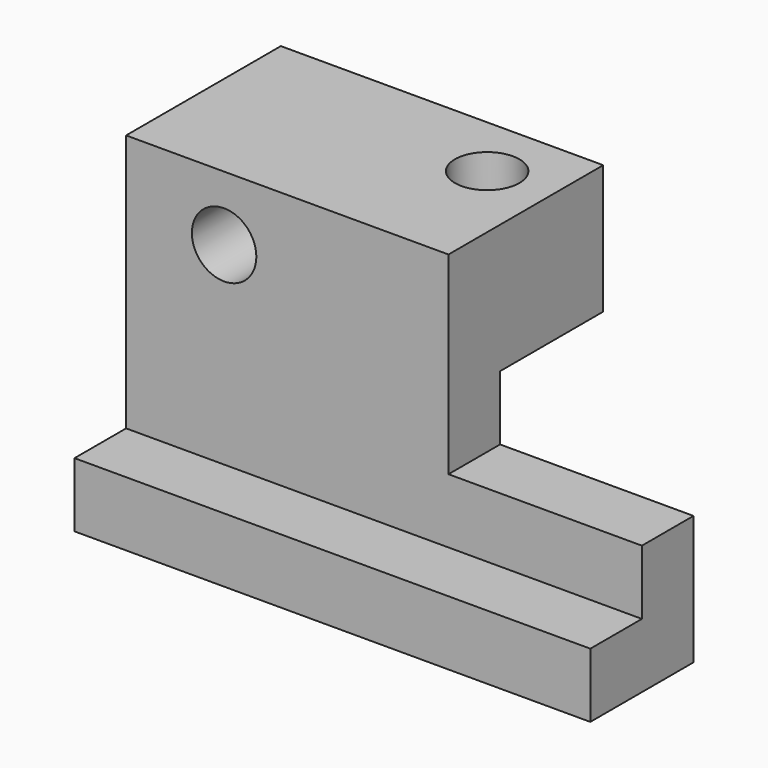
from build123d import *

# Parameters (mm, degrees)
F1_DEPTH = 31.75
F2_DEPTH = 50.8
F3_R     = 3.175
F4_DEPTH = 19.051
F5_R     = 3.175
F6_DEPTH = 31.751


with BuildPart() as f1:
    # F0 (on Right) → F1 (new body)
    with BuildSketch(Plane.YZ):
        Polygon((0, -12.7), (0, 0), (-19.05, 0), (-19.05, -19.05), (-12.7, -19.05), (-12.7, -12.7), align=None)
    extrude(amount=F1_DEPTH)

    # F0 (on Right) → F2 (join)
    with BuildSketch(Plane.YZ):
        Polygon((-12.7, -19.05), (-19.05, -19.05), (-19.05, -25.4), (-25.4, -25.4), (-25.4, -31.75), (-12.7, -31.75), align=None)
    extrude(amount=F2_DEPTH)

    # F3 (on face) → F4 (cut, through all)
    with BuildSketch(Plane.XZ.offset(19.05)):
        with Locations((9.652, -6.35)):
            Circle(F3_R)
    extrude(amount=-F4_DEPTH, mode=Mode.SUBTRACT)

    # F5 (on face) → F6 (cut, through all)
    with BuildSketch(Plane.XY):
        with Locations((25.4, -6.35)):
            Circle(F5_R)
    extrude(amount=-F6_DEPTH, mode=Mode.SUBTRACT)


solid = f1.part
